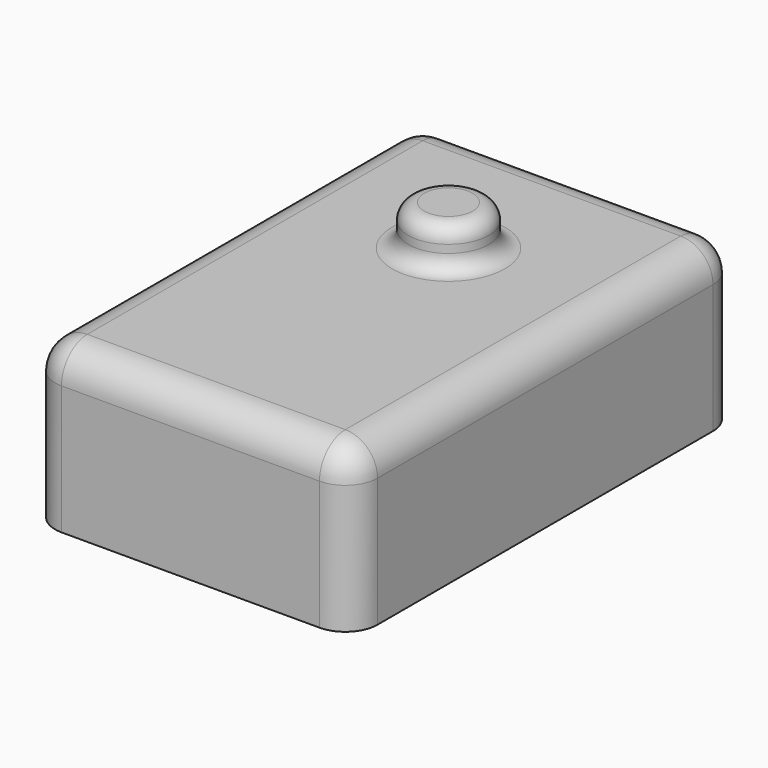
from build123d import *

# Parameters (mm, degrees)
F0_W     = 50.8
F0_H     = 25.4
F1_DEPTH = 76.2
F2_R     = 6.35
F3_DEPTH = 6.35
F4_R     = 2.54
F5_R     = 5.08


with BuildPart() as f1:
    # F0 (on Front) → F1 (new body)
    with BuildSketch(Plane.XZ):
        with Locations((25.4, 12.7)):
            Rectangle(F0_W, F0_H)
    extrude(amount=F1_DEPTH)

    # F2 (on face) → F3 (join)
    with BuildSketch(Plane.XY.offset(25.4)):
        with Locations((25.4, -25.4)):
            Circle(F2_R)
    extrude(amount=F3_DEPTH)

    # F4
    f4_edges = [f1.edges().sort_by_distance(p)[0] for p in [
        (19.05, -25.4, 25.4),
        (19.05, -25.4, 31.75),
    ]]
    fillet(f4_edges, radius=F4_R)

    # F5
    f5_edges = [f1.edges().sort_by_distance(p)[0] for p in [
        (50.8, -76.2, 12.7),
        (50.8, 0, 12.7),
        (0, 0, 12.7),
        (0, -76.2, 12.7),
        (16.51, -25.4, 25.4),
        (50.8, -38.1, 25.4),
        (25.4, 0, 25.4),
        (25.4, -76.2, 25.4),
        (0, -38.1, 25.4),
    ]]
    fillet(f5_edges, radius=F5_R)


solid = f1.part
